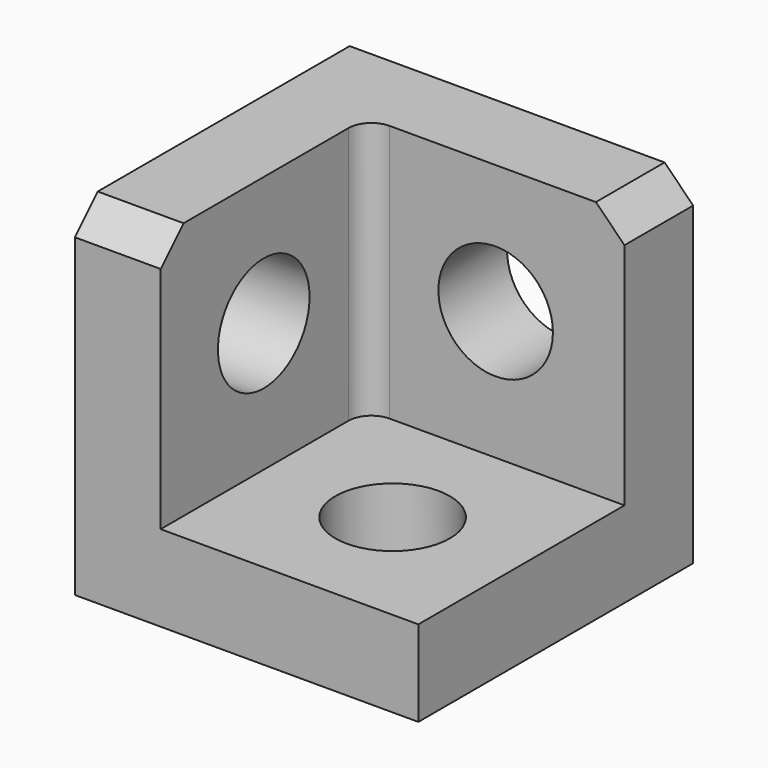
from build123d import *

# Parameters (mm, degrees)
F0_W      = 76.2
F0_H      = 76.2
F1_DEPTH  = 76.2
F2_W      = 57.15
F2_H      = 57.15
F3_DEPTH  = 57.15
F4_SIZE   = 6.35
F5_SIZE   = 6.35
F6_R      = 5.08
F7_R      = 12.7
F8_DEPTH  = 19.05
F9_R      = 12.7
F10_DEPTH = 19.05
F11_R     = 12.7
F12_DEPTH = 19.05


with BuildPart() as f1:
    # F0 (on Front) → F1 (new body)
    with BuildSketch(Plane.XZ):
        Rectangle(F0_W, F0_H)
    extrude(amount=F1_DEPTH)

    # F2 (on face) → F3 (cut)
    with BuildSketch(Plane.XZ.offset(76.2)):
        with Locations((9.525, 9.525)):
            Rectangle(F2_W, F2_H)
    extrude(amount=-F3_DEPTH, mode=Mode.SUBTRACT)

    # F4
    f4_edges = [f1.edges().sort_by_distance(p)[0] for p in [
        (-28.575, -76.2, 38.1),
    ]]
    chamfer(f4_edges, length=F4_SIZE)

    # F5
    f5_edges = [f1.edges().sort_by_distance(p)[0] for p in [
        (38.1, -9.525, 38.1),
    ]]
    chamfer(f5_edges, length=F5_SIZE)

    # F6
    f6_edges = [f1.edges().sort_by_distance(p)[0] for p in [
        (-19.05, -19.05, 9.525),
    ]]
    fillet(f6_edges, radius=F6_R)

    # F7 (on face) → F8 (cut)
    with BuildSketch(Plane.YZ.offset(-19.05)):
        with Locations((-47.625, 9.525)):
            Circle(F7_R)
    extrude(amount=-F8_DEPTH, mode=Mode.SUBTRACT)

    # F9 (on face) → F10 (cut)
    with BuildSketch(Plane.XZ.offset(19.05)):
        with Locations((9.525, 9.525)):
            Circle(F9_R)
    extrude(amount=-F10_DEPTH, mode=Mode.SUBTRACT)

    # F11 (on face) → F12 (cut)
    with BuildSketch(Plane.XY.offset(-19.05)):
        with Locations((9.525, -47.625)):
            Circle(F11_R)
    extrude(amount=-F12_DEPTH, mode=Mode.SUBTRACT)


solid = f1.part
